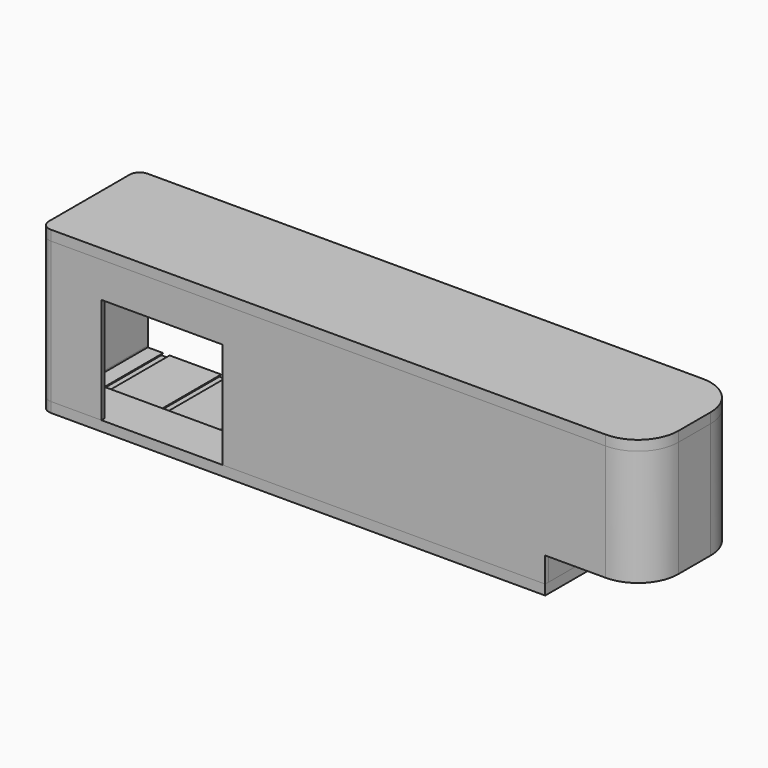
from build123d import *

# Parameters (mm, degrees)
F0_W      = 80
F0_H      = 820
F0_H_2    = 1420
F1_DEPTH  = 2800
F0_W_2    = 920
F0_H_3    = 2240
F0_W_3    = 5720
F0_W_4    = 2920
F2_DEPTH  = 200
F3_W      = 2400
F3_H      = 2100
F4_DEPTH  = 1454.2702436447
F5_W      = 800
F5_H      = 2100
F6_DEPTH  = 3837.007522583
F7_DEPTH  = 30
F9_DEPTH  = 1800
F10_DEPTH = 500
F11_DEPTH = 700
F13_DEPTH = 200
F15_DEPTH = 200


with BuildPart() as f1:
    # F0 (on Top) → F1 (new body)
    with BuildSketch(Plane.XY):
        with BuildLine():
            Line((4000, -1200), (5200, -1200))
            ThreePointArc((5200, -1200), (5765.6854249492, -965.6854249492), (6000, -400))
            Line((6000, -400), (6000, 400))
            ThreePointArc((6000, 400), (5765.6854249492, 965.6854249492), (5200, 1200))
            Line((5200, 1200), (4000, 1200))
            Line((4000, 1200), (4000, 1120))
            Line((4000, 1120), (5200, 1120))
            ThreePointArc((5200, 1120), (5709.1168824543, 909.1168824543), (5920, 400))
            Line((5920, 400), (5920, -400))
            ThreePointArc((5920, -400), (5709.1168824543, -909.1168824543), (5200, -1120))
            Line((5200, -1120), (4000, -1120))
            Line((4000, -1120), (4000, -1200))
        make_face()
        with BuildLine():
            Line((-5800, -1200), (4000, -1200))
            Line((4000, -1200), (4000, -1120))
            Line((4000, -1120), (3920, -1120))
            Line((3920, -1120), (3000, -1120))
            Line((3000, -1120), (2920, -1120))
            Line((2920, -1120), (0, -1120))
            Line((0, -1120), (-80, -1120))
            Line((-80, -1120), (-5800, -1120))
            Line((-5800, -1120), (-5800, -300))
            Line((-5800, -300), (-5800, 1200))
            ThreePointArc((-5800, 1200), (-5941.4213562373, 1141.4213562373), (-6000, 1000))
            Line((-6000, 1000), (-6000, -1000))
            ThreePointArc((-6000, -1000), (-5941.4213562373, -1141.4213562373), (-5800, -1200))
        make_face()
        with Locations((-40, -710)):
            Rectangle(F0_W, F0_H)
        with Locations((-40, 410)):
            Rectangle(F0_W, F0_H_2)
        Polygon((3920, 1120), (4000, 1120), (4000, 1200), (2920, 1200), (2920, -300), (2920, -1120), (3000, -1120), (3000, 1120), align=None)
        with BuildLine():
            Line((-5800, -1200), (4000, -1200))
            Line((4000, -1200), (4000, -1120))
            Line((4000, -1120), (3920, -1120))
            Line((3920, -1120), (3000, -1120))
            Line((3000, -1120), (2920, -1120))
            Line((2920, -1120), (0, -1120))
            Line((0, -1120), (-80, -1120))
            Line((-80, -1120), (-5800, -1120))
            Line((-5800, -1120), (-5800, -300))
            Line((-5800, -300), (-5800, 1200))
            ThreePointArc((-5800, 1200), (-5941.4213562373, 1141.4213562373), (-6000, 1000))
            Line((-6000, 1000), (-6000, -1000))
            ThreePointArc((-6000, -1000), (-5941.4213562373, -1141.4213562373), (-5800, -1200))
        make_face()
    extrude(amount=F1_DEPTH)

    # F3 (on face) → F4 (cut)
    with BuildSketch(Plane.XZ.offset(1200)):
        with Locations((-3600, 1050)):
            Rectangle(F3_W, F3_H)
    extrude(amount=-F4_DEPTH, mode=Mode.SUBTRACT)

    # F5 (on face) → F6 (cut)
    with BuildSketch(Plane(origin=(-80, 0, 0), x_dir=(0, -1, 0), z_dir=(-1, 0, 0))):
        with Locations((720, 1050)):
            Rectangle(F5_W, F5_H)
    extrude(amount=-F6_DEPTH, mode=Mode.SUBTRACT)

    # F0 (on Top) → F10 (cut)
    with BuildSketch(Plane.XY):
        with BuildLine():
            Line((4000, -1200), (5200, -1200))
            ThreePointArc((5200, -1200), (5765.6854249492, -965.6854249492), (6000, -400))
            Line((6000, -400), (6000, 400))
            ThreePointArc((6000, 400), (5765.6854249492, 965.6854249492), (5200, 1200))
            Line((5200, 1200), (4000, 1200))
            Line((4000, 1200), (4000, 1120))
            Line((4000, 1120), (5200, 1120))
            ThreePointArc((5200, 1120), (5709.1168824543, 909.1168824543), (5920, 400))
            Line((5920, 400), (5920, -400))
            ThreePointArc((5920, -400), (5709.1168824543, -909.1168824543), (5200, -1120))
            Line((5200, -1120), (4000, -1120))
            Line((4000, -1120), (4000, -1200))
        make_face()
    extrude(amount=F10_DEPTH, mode=Mode.SUBTRACT)


with BuildPart() as f2:
    # F0 (on Top) → F2 (new body)
    with BuildSketch(Plane.XY):
        with Locations((3460, 0)):
            Rectangle(F0_W_2, F0_H_3)
        with Locations((-40, -710)):
            Rectangle(F0_W, F0_H)
        with Locations((-40, 410)):
            Rectangle(F0_W, F0_H_2)
        with Locations((-2940, -710)):
            Rectangle(F0_W_3, F0_H)
        with Locations((1460, -710)):
            Rectangle(F0_W_4, F0_H)
        Polygon((2920, 1200), (-5800, 1200), (-5800, -300), (-80, -300), (-80, 1120), (0, 1120), (0, -300), (2920, -300), align=None)
        with BuildLine():
            Line((-5800, -1200), (4000, -1200))
            Line((4000, -1200), (4000, -1120))
            Line((4000, -1120), (3920, -1120))
            Line((3920, -1120), (3000, -1120))
            Line((3000, -1120), (2920, -1120))
            Line((2920, -1120), (0, -1120))
            Line((0, -1120), (-80, -1120))
            Line((-80, -1120), (-5800, -1120))
            Line((-5800, -1120), (-5800, -300))
            Line((-5800, -300), (-5800, 1200))
            ThreePointArc((-5800, 1200), (-5941.4213562373, 1141.4213562373), (-6000, 1000))
            Line((-6000, 1000), (-6000, -1000))
            ThreePointArc((-6000, -1000), (-5941.4213562373, -1141.4213562373), (-5800, -1200))
        make_face()
        Polygon((3920, 1120), (4000, 1120), (4000, 1200), (2920, 1200), (2920, -300), (2920, -1120), (3000, -1120), (3000, 1120), align=None)
        with Locations((3960, 0)):
            Rectangle(F0_W, F0_H_3)
    extrude(amount=-F2_DEPTH)

    # F0 (on Top) → F7 (cut)
    with BuildSketch(Plane.XY):
        Polygon((2920, 1200), (-5800, 1200), (-5800, -300), (-80, -300), (-80, 1120), (0, 1120), (0, -300), (2920, -300), align=None)
    extrude(amount=-F7_DEPTH, mode=Mode.SUBTRACT)

    # F8 (on face) → F9 (cut)
    with BuildSketch(Plane(origin=(0, 1200, 0), x_dir=(-1, 0, 0), z_dir=(0, 1, 0))):
        Polygon((-2555.679101944, -30), (-2684.320898056, -30), (-2720, -80), (-2520, -80), align=None)
        Polygon((-1405.679101944, -30), (-1534.320898056, -30), (-1570, -80), (-1370, -80), align=None)
        Polygon((-255.679101944, -30), (-384.320898056, -30), (-420, -80), (-220, -80), align=None)
        Polygon((2080, -80), (2044.320898056, -30), (1915.679101944, -30), (1880, -80), align=None)
        Polygon((894.320898056, -30), (765.679101944, -30), (730, -80), (930, -80), align=None)
        Polygon((3230, -80), (3194.320898056, -30), (3065.679101944, -30), (3030, -80), align=None)
        Polygon((4380, -80), (4344.320898056, -30), (4215.679101944, -30), (4180, -80), align=None)
        Polygon((5530, -80), (5494.320898056, -30), (5365.679101944, -30), (5330, -80), align=None)
    extrude(amount=-F9_DEPTH, mode=Mode.SUBTRACT)


with BuildPart() as f11:
    # F0 (on Top) → F11 (new body)
    with BuildSketch(Plane.XY):
        with Locations((3960, 0)):
            Rectangle(F0_W, F0_H_3)
    extrude(amount=F11_DEPTH)


with BuildPart() as f13:
    # F12 (on face) → F13 (new body)
    with BuildSketch(Plane(origin=(0, 0, 500), x_dir=(1, 0, 0), z_dir=(0, 0, -1))):
        with BuildLine():
            Line((4000, 1120), (4000, -1120))
            Line((4000, -1120), (5200, -1120))
            ThreePointArc((5200, -1120), (5709.1168824543, -909.1168824543), (5920, -400))
            Line((5920, -400), (5920, 400))
            ThreePointArc((5920, 400), (5709.1168824543, 909.1168824543), (5200, 1120))
            Line((5200, 1120), (4000, 1120))
        make_face()
    extrude(amount=-F13_DEPTH)


with BuildPart() as f15:
    # F14 (on face) → F15 (new body)
    with BuildSketch(Plane.XY.offset(2800)):
        with BuildLine():
            Line((-5800, -1200), (5200, -1200))
            ThreePointArc((5200, -1200), (5765.6854249492, -965.6854249492), (6000, -400))
            Line((6000, -400), (6000, 400))
            ThreePointArc((6000, 400), (5765.6854249492, 965.6854249492), (5200, 1200))
            Line((5200, 1200), (2920, 1200))
            Line((2920, 1200), (2920, -1120))
            Line((2920, -1120), (0, -1120))
            Line((0, -1120), (0, 1120))
            Line((0, 1120), (-80, 1120))
            Line((-80, 1120), (-80, -1120))
            Line((-80, -1120), (-5800, -1120))
            Line((-5800, -1120), (-5800, 1200))
            ThreePointArc((-5800, 1200), (-5941.4213562373, 1141.4213562373), (-6000, 1000))
            Line((-6000, 1000), (-6000, -1000))
            ThreePointArc((-6000, -1000), (-5941.4213562373, -1141.4213562373), (-5800, -1200))
        make_face()
        with BuildLine():
            Line((5920, 400), (5920, -400))
            ThreePointArc((5920, -400), (5709.1168824543, -909.1168824543), (5200, -1120))
            Line((5200, -1120), (3000, -1120))
            Line((3000, -1120), (3000, 1120))
            Line((3000, 1120), (5200, 1120))
            ThreePointArc((5200, 1120), (5709.1168824543, 909.1168824543), (5920, 400))
        make_face(mode=Mode.SUBTRACT)
        with BuildLine():
            ThreePointArc((5200, -1120), (5709.1168824543, -909.1168824543), (5920, -400))
            Line((5920, -400), (5920, 400))
            ThreePointArc((5920, 400), (5709.1168824543, 909.1168824543), (5200, 1120))
            Line((5200, 1120), (3000, 1120))
            Line((3000, 1120), (3000, -1120))
            Line((3000, -1120), (5200, -1120))
        make_face()
        Polygon((2920, 1200), (-5800, 1200), (-5800, -1120), (-80, -1120), (-80, 1120), (0, 1120), (0, -1120), (2920, -1120), align=None)
    extrude(amount=F15_DEPTH)


solid = Compound([f1.part, f2.part, f11.part, f13.part, f15.part])
